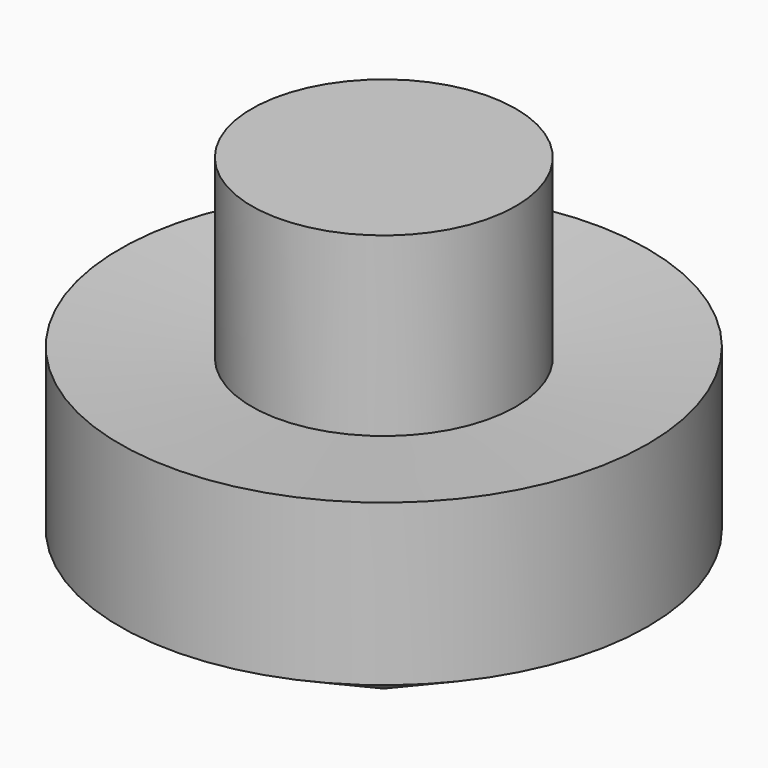
from build123d import *

# Parameters (mm, degrees)
F0_W = 19.3101465702
F0_H = 25.8295014501


with BuildPart() as f1:
    # F0 (on Front) → F1 (revolve)
    with BuildSketch(Plane.XZ):
        Polygon((38.6202931404, 20.5500498414), (0, 41.1000996828), (0, 0), align=None)
        Polygon((19.3101465702, 42.5776690245), (0, 41.1000996828), (38.6202931404, 20.5500498414), (38.6202931404, 44.0552383661), align=None)
    revolve(axis=Axis((0, 0, 20.5500498414), (0, 0, -1)))


with BuildPart() as f1b:
    # F0 (on Front) → F1, piece 2 (revolve)
    with BuildSketch(Plane.XZ):
        with Locations((9.6550732851, 55.4924197495)):
            Rectangle(F0_W, F0_H)
    revolve(axis=Axis((0, 0, 20.5500498414), (0, 0, -1)))


solid = Compound([f1.part, f1b.part])
